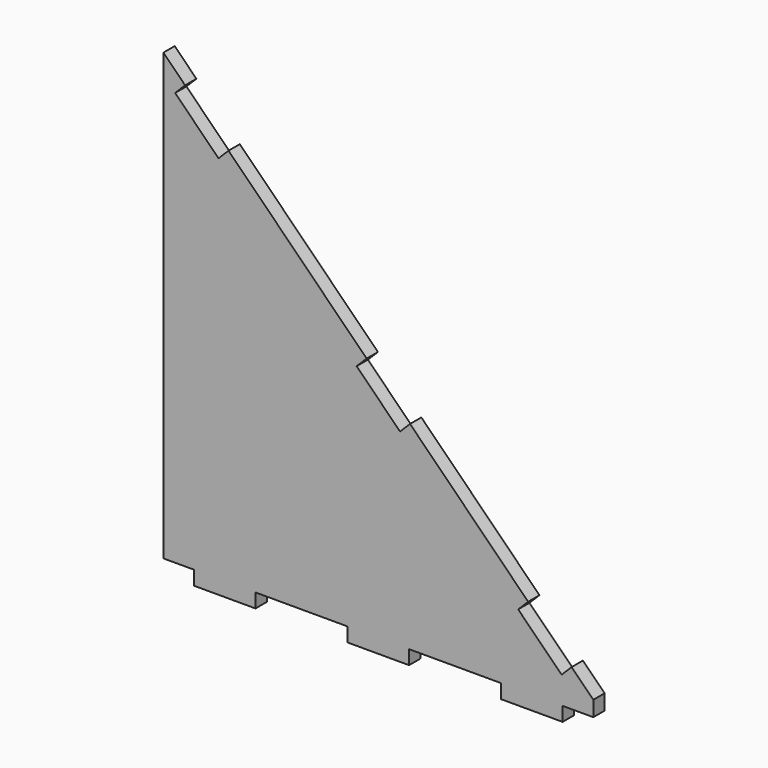
from build123d import *

# Parameters (mm, degrees)
F0_W     = 25.4
F0_H     = 5.842
F1_DEPTH = 5.842


with BuildPart() as f1:
    # F0 (on Front) → F1 (new body)
    with BuildSketch(Plane.XZ):
        Polygon((8.980256, 175.169744), (0, 184.15), (0, 0), (12.7, 0), (38.1, 0), (76.2, 0), (101.6, 0), (139.7, 0), (165.1, 0), (177.8, 0), (177.8, 6.35), (168.819744, 15.330256), (164.688826, 11.199338), (146.728314, 29.159851), (150.859232, 33.290768), (102.011174, 82.138826), (97.880256, 78.007908), (79.919744, 95.96842), (84.050662, 100.099338), (26.940768, 157.209232), (22.809851, 153.078314), (4.849338, 171.038826), align=None)
        with Locations((25.4, -2.921)):
            Rectangle(F0_W, F0_H)
        with Locations((152.4, -2.921)):
            Rectangle(F0_W, F0_H)
        with Locations((88.9, -2.921)):
            Rectangle(F0_W, F0_H)
    extrude(amount=-F1_DEPTH)


solid = f1.part
